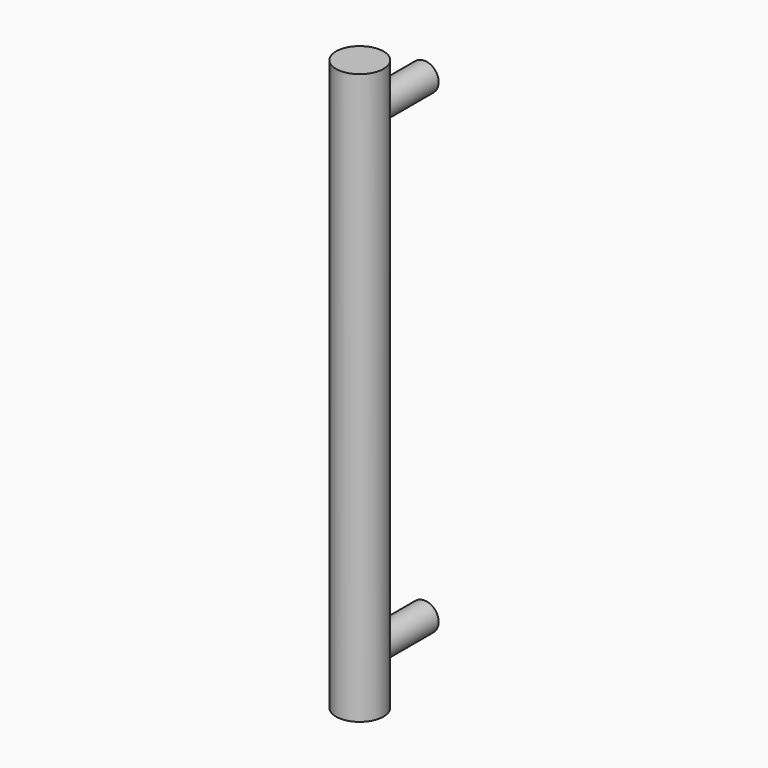
from build123d import *

# Parameters (mm, degrees)
SKETCH1248_R           = 5
OBJ1_DEPTH = 60
CLONE2D015_R           = 3
OBJ2_DEPTH = 17
SKETCH1249_R           = 3
OBJ3 = 17


with BuildPart() as obj1:
    # Sketch1248 (on Sketch) → obj1 (new body, symmetric)
    with BuildSketch(Plane(origin=(471.25, -267, 0), x_dir=(-1, 0, 0), z_dir=(0, 0, 1))):
        Circle(SKETCH1248_R)
    extrude(amount=OBJ1_DEPTH, both=True)


with BuildPart() as obj2:
    # Clone2D015 (on Sketch) → obj2 (new body)
    with BuildSketch(Plane(origin=(471.25, -250, 50), x_dir=(0, 0, 1), z_dir=(0, -1, 0))):
        Circle(CLONE2D015_R)
    extrude(amount=OBJ2_DEPTH)


with BuildPart() as handle_right_03_single:
    with BuildSketch(Plane(origin=(471.25, -250, -50), x_dir=(0, 0, 1), z_dir=(0, -1, 0))):
        Circle(SKETCH1249_R)
    extrude(amount=OBJ3)

    # Fusion008: union obj1, obj2
    add(obj1.part)
    add(obj2.part)


solid = handle_right_03_single.part
